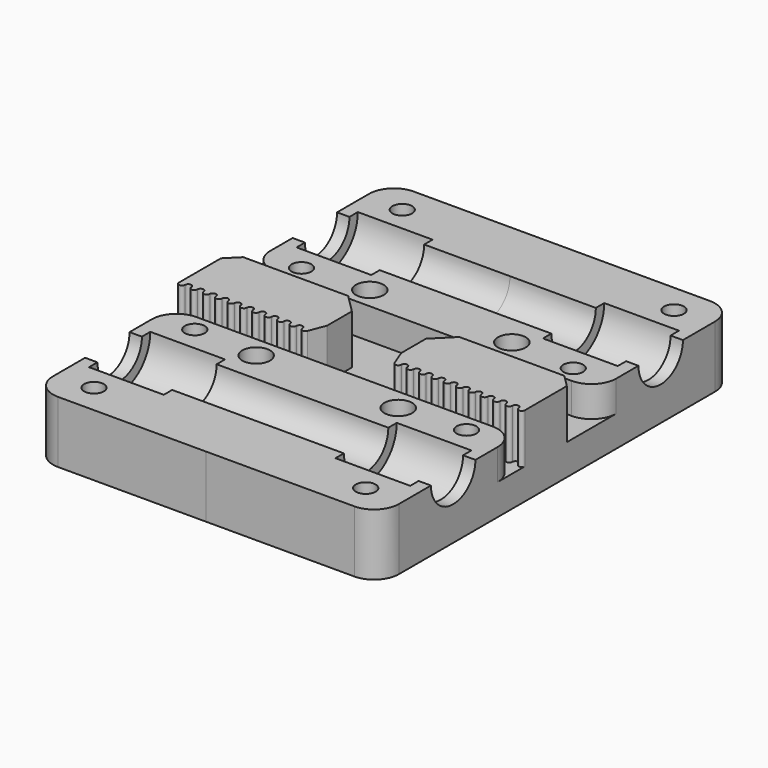
from build123d import *

# Parameters (mm, degrees)
BOX_W           = 28
BOX_H           = 36
BOX_DEPTH       = 10
POCKET_DEPTH    = 14.1
PAD_DEPTH       = 2
SKETCH002_R     = 4.5
POCKET001_DEPTH = 28.001
SKETCH003_R     = 2.25
SKETCH003_R_2   = 1.6
POCKET002_DEPTH = 10.001
SKETCH004_R     = 2.9
POCKET003_DEPTH = 3.5
SKETCH005_W     = 6
SKETCH005_H     = 4
POCKET004_DEPTH = 5
SKETCH006_W     = 28
SKETCH006_H     = 4
POCKET005_DEPTH = 5
SKETCH007_W     = 22
SKETCH007_H     = 4
PAD001_DEPTH    = 3
PAD002_DEPTH    = 8
CHAMFER_SIZE    = 2
CHAMFER001_SIZE = 3
FILLET_R        = 4
FILLET001_R     = 4
FILLET002_R     = 4
FILLET003_R     = 4


with BuildPart() as pad001:
    # Box → Box (new body)
    with BuildSketch(Plane.XY):
        with Locations((14, 18)):
            Rectangle(BOX_W, BOX_H)
    extrude(amount=BOX_DEPTH)

    # Sketch → Pocket (cut)
    with BuildSketch(Plane.YZ.offset(28)):
        with BuildLine():
            ThreePointArc((14.8, 10), (21, 3.8), (27.2, 10))
            Line((14.8, 10), (27.2, 10))
        make_face()
    extrude(amount=-POCKET_DEPTH, mode=Mode.SUBTRACT)

    # Sketch001 → Pad (new body)
    with BuildSketch(Plane.YZ.offset(28)):
        with BuildLine():
            Line((14.8, 10), (27.2, 10))
            ThreePointArc((14.8, 10), (21, 3.8), (27.2, 10))
        make_face()
    extrude(amount=-PAD_DEPTH)

    # Sketch002 → Pocket001 (cut, through all)
    with BuildSketch(Plane.YZ.offset(28)):
        with Locations((21, 10)):
            Circle(SKETCH002_R)
    extrude(amount=-POCKET001_DEPTH, mode=Mode.SUBTRACT)

    # Sketch003 → Pocket002 (cut, through all)
    with BuildSketch(Plane.XY.offset(10)):
        with Locations((11.5, 11.5)):
            Circle(SKETCH003_R)
        with Locations((22, 10.8)):
            Circle(SKETCH003_R_2)
        with Locations((22, 31.2)):
            Circle(SKETCH003_R_2)
    extrude(amount=-POCKET002_DEPTH, mode=Mode.SUBTRACT)

    # Sketch004 → Pocket003 (cut)
    with BuildSketch(Plane(origin=(0, 0, 0), x_dir=(1, 0, 0), z_dir=(0, 0, -1))):
        with Locations((22, -10.8)):
            Circle(SKETCH004_R)
        with Locations((22, -31.2)):
            Circle(SKETCH004_R)
    extrude(amount=-POCKET003_DEPTH, mode=Mode.SUBTRACT)

    # Sketch005 → Pocket004 (cut)
    with BuildSketch(Plane.XY.offset(10)):
        with Locations((3, 2)):
            Rectangle(SKETCH005_W, SKETCH005_H)
    extrude(amount=-POCKET004_DEPTH, mode=Mode.SUBTRACT)

    # Sketch006 → Pocket005 (cut)
    with BuildSketch(Plane.XY.offset(10)):
        with Locations((14, 6)):
            Rectangle(SKETCH006_W, SKETCH006_H)
    extrude(amount=-POCKET005_DEPTH, mode=Mode.SUBTRACT)

    # Sketch007 → Pad001 (new body)
    with BuildSketch(Plane.XY.offset(10)):
        with Locations((17, 2)):
            Rectangle(SKETCH007_W, SKETCH007_H)
    extrude(amount=PAD001_DEPTH)


with BuildPart() as part_mirroring:
    # Part__Mirroring: instance of Pad001
    add(pad001.part.mirror(Plane(origin=(0, 0, 0), x_dir=(1, 0, 0), z_dir=(0, 1, 0))))


with BuildPart() as fillet003:
    # Fusion base: copy of Pad001
    add(pad001.part)

    # Fusion: union Part__Mirroring
    add(part_mirroring.part)

    # Sketch008 → Pad002 (new body)
    with BuildSketch(Plane.XY.offset(13)):
        with BuildLine():
            ThreePointArc((27, -6.5), (27.5, -7), (28, -6.5))
            Line((28, -4), (28, -6.5))
            Line((6, -4), (28, -4))
            Line((6, -4), (7.03349, -6.679913))
            ThreePointArc((7.03349, -6.679913), (7.591502, -6.991556), (8, -6.5))
            ThreePointArc((9, -6.5), (8.5, -6), (8, -6.5))
            ThreePointArc((9, -6.5), (9.5, -7), (10, -6.5))
            ThreePointArc((11, -6.5), (10.5, -6), (10, -6.5))
            ThreePointArc((11, -6.5), (11.5, -7), (12, -6.5))
            ThreePointArc((13, -6.5), (12.5, -6), (12, -6.5))
            ThreePointArc((13, -6.5), (13.5, -7), (14, -6.5))
            ThreePointArc((15, -6.5), (14.5, -6), (14, -6.5))
            ThreePointArc((15, -6.5), (15.5, -7), (16, -6.5))
            ThreePointArc((17, -6.5), (16.5, -6), (16, -6.5))
            ThreePointArc((17, -6.5), (17.5, -7), (18, -6.5))
            ThreePointArc((19, -6.5), (18.5, -6), (18, -6.5))
            ThreePointArc((19, -6.5), (19.5, -7), (20, -6.5))
            ThreePointArc((21, -6.5), (20.5, -6), (20, -6.5))
            ThreePointArc((21, -6.5), (21.5, -7), (22, -6.5))
            ThreePointArc((23, -6.5), (22.5, -6), (22, -6.5))
            ThreePointArc((23, -6.5), (23.5, -7), (24, -6.5))
            ThreePointArc((25, -6.5), (24.5, -6), (24, -6.5))
            ThreePointArc((25, -6.5), (25.5, -7), (26, -6.5))
            ThreePointArc((27, -6.5), (26.5, -6), (26, -6.5))
        make_face()
    extrude(amount=-PAD002_DEPTH)

    # Chamfer
    chamfer_edges = [fillet003.edges().sort_by_distance(p)[0] for p in [
        (28, 4, 7.5),
    ]]
    chamfer(chamfer_edges, length=CHAMFER_SIZE)

    # Chamfer001
    chamfer001_edges = [fillet003.edges().sort_by_distance(p)[0] for p in [
        (6, 4, 7.5),
    ]]
    chamfer(chamfer001_edges, length=CHAMFER001_SIZE)

    # Fillet
    fillet_edges = [fillet003.edges().sort_by_distance(p)[0] for p in [
        (28, 36, 5),
    ]]
    fillet(fillet_edges, radius=FILLET_R)

    # Fillet001
    fillet001_edges = [fillet003.edges().sort_by_distance(p)[0] for p in [
        (28, 8, 7.5),
    ]]
    fillet(fillet001_edges, radius=FILLET001_R)

    # Fillet002
    fillet002_edges = [fillet003.edges().sort_by_distance(p)[0] for p in [
        (28, -36, 5),
    ]]
    fillet(fillet002_edges, radius=FILLET002_R)

    # Fillet003
    fillet003_edges = [fillet003.edges().sort_by_distance(p)[0] for p in [
        (28, -8, 7.5),
    ]]
    fillet(fillet003_edges, radius=FILLET003_R)


with BuildPart() as part_mirroring001:
    # Part__Mirroring001: instance of Fillet003
    add(fillet003.part.mirror(Plane(origin=(0, 0, 0), x_dir=(0, -1, 0), z_dir=(1, 0, 0))))


with BuildPart() as fusion001:
    # Fusion001 base: copy of Fillet003
    add(fillet003.part)

    # Fusion001: union Part__Mirroring001
    add(part_mirroring001.part)


solid = fusion001.part
